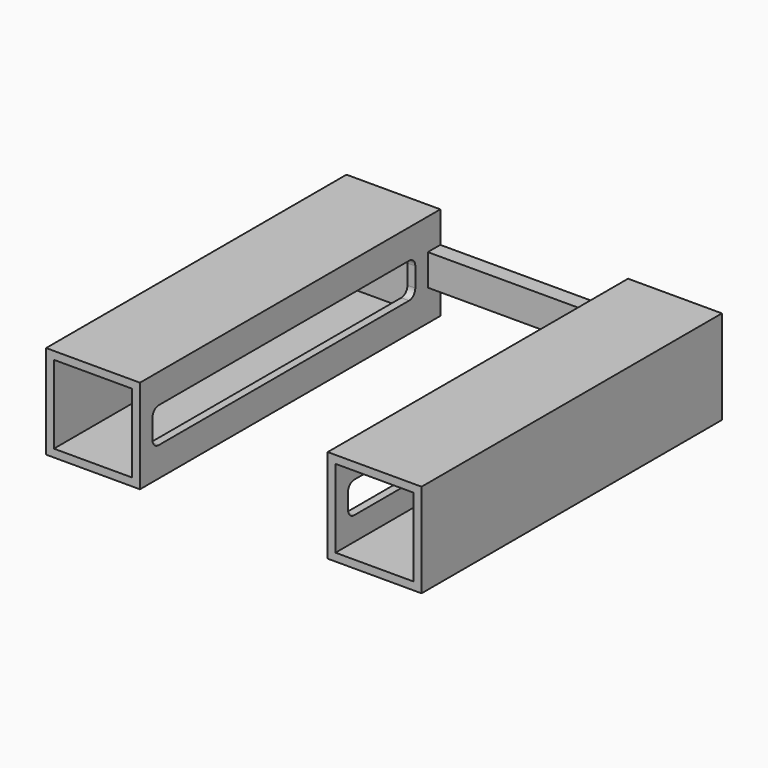
from build123d import *

# Parameters (mm, degrees)
F0_W     = 127
F0_H     = 127
F0_W_2   = 304.8
F0_H_2   = 50.8
F1_DEPTH = 25.4
F2_DEPTH = 30.48
F3_DEPTH = 609.6
F4_W     = 533.4
F4_H     = 57.0844708983
F5_DEPTH = 25.4
F6_R     = 12.7
F7_W     = 533.4
F7_H     = 50.8
F8_DEPTH = 25.4
F9_R     = 12.7


with BuildPart() as f1:
    # F0 (on Front) → F1 (new body)
    with BuildSketch(Plane.XZ):
        Polygon((-398.611273554, 101.6), (-398.611273554, -50.8), (-246.211273554, -50.8), (-246.211273554, 0), (-246.211273554, 50.8), (-246.211273554, 101.6), align=None)
        with Locations((-322.411273554, 25.4)):
            Rectangle(F0_W, F0_H, mode=Mode.SUBTRACT)
        with Locations((-93.811273554, 25.4)):
            Rectangle(F0_W_2, F0_H_2)
        Polygon((58.588726446, 50.8), (58.588726446, 0), (58.588726446, -50.8), (210.988726446, -50.8), (210.988726446, 101.6), (58.588726446, 101.6), align=None)
        with Locations((134.788726446, 25.4)):
            Rectangle(F0_W, F0_H, mode=Mode.SUBTRACT)
    extrude(amount=F1_DEPTH)

    # F0 (on Front) → F2 (join)
    with BuildSketch(Plane.XZ):
        with Locations((-322.411273554, 25.4)):
            Rectangle(F0_W, F0_H)
        with Locations((134.788726446, 25.4)):
            Rectangle(F0_W, F0_H)
    extrude(amount=F2_DEPTH)

    # F0 (on Front) → F3 (join)
    with BuildSketch(Plane.XZ):
        Polygon((-398.611273554, 101.6), (-398.611273554, -50.8), (-246.211273554, -50.8), (-246.211273554, 0), (-246.211273554, 50.8), (-246.211273554, 101.6), align=None)
        with Locations((-322.411273554, 25.4)):
            Rectangle(F0_W, F0_H, mode=Mode.SUBTRACT)
        Polygon((58.588726446, 50.8), (58.588726446, 0), (58.588726446, -50.8), (210.988726446, -50.8), (210.988726446, 101.6), (58.588726446, 101.6), align=None)
        with Locations((134.788726446, 25.4)):
            Rectangle(F0_W, F0_H, mode=Mode.SUBTRACT)
    extrude(amount=F3_DEPTH)

    # F4 (on face) → F5 (cut)
    with BuildSketch(Plane.YZ.offset(-246.211273554)):
        with Locations((-317.5, 25.4)):
            Rectangle(F4_W, F4_H)
    extrude(amount=-F5_DEPTH, mode=Mode.SUBTRACT)

    # F6
    f6_edges = [f1.edges().sort_by_distance(p)[0] for p in [
        (-252.561274, -584.2, -3.142235),
        (-252.561274, -584.2, 53.942235),
        (-252.561274, -50.8, 53.942235),
        (-252.561274, -50.8, -3.142235),
    ]]
    fillet(f6_edges, radius=F6_R)

    # F7 (on face) → F8 (cut)
    with BuildSketch(Plane(origin=(58.588726446, 0, 0), x_dir=(0, -1, 0), z_dir=(-1, 0, 0))):
        with Locations((317.5, 25.4)):
            Rectangle(F7_W, F7_H)
    extrude(amount=-F8_DEPTH, mode=Mode.SUBTRACT)

    # F9
    f9_edges = [f1.edges().sort_by_distance(p)[0] for p in [
        (64.938726, -584.2, 50.8),
        (64.938726, -584.2, 0),
        (64.938726, -50.8, 0),
        (64.938726, -50.8, 50.8),
    ]]
    fillet(f9_edges, radius=F9_R)


solid = f1.part
